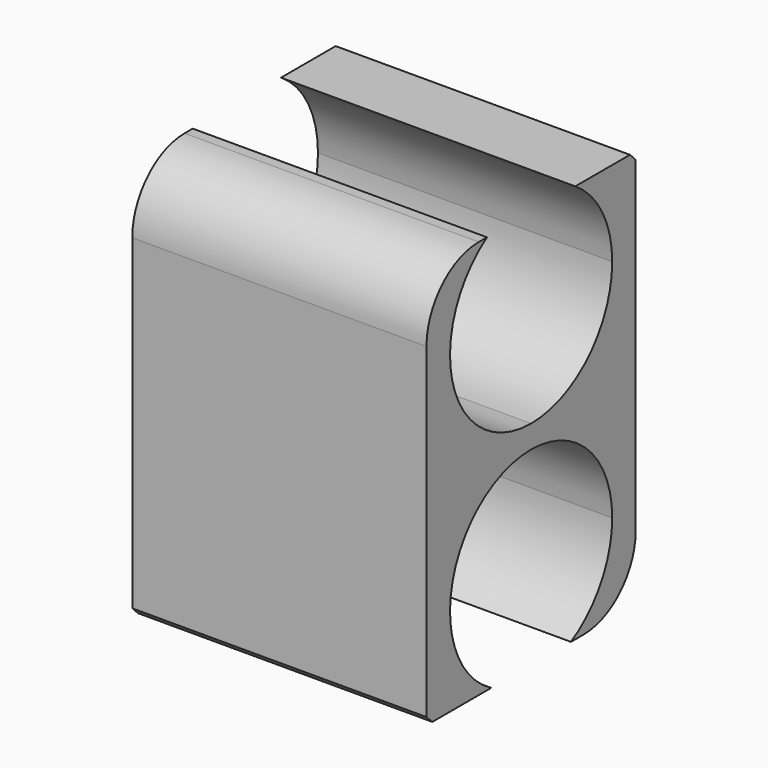
from build123d import *

# Parameters (mm, degrees)
F0_W     = 1.143
F0_H     = 1.5494
F1_DEPTH = 1.016
F3_DEPTH = 25.4
F4_R     = 0.254
F5_R     = 0.254
F6_SIZE  = 0.028194


with BuildPart() as f1:
    # F0 (on Front) → F1 (new body)
    with BuildSketch(Plane.XZ):
        Rectangle(F0_W, F0_H)
    extrude(amount=F1_DEPTH)

    # F2 (on face) → F3 (cut)
    with BuildSketch(Plane.YZ.offset(0.5715)):
        with BuildLine():
            Line((-0.508, 0.0507245232), (-0.508, 0.7747))
            Line((-0.508, 0.7747), (-0.7222843892, 0.7747))
            ThreePointArc((-0.7222843892, 0.7747), (-0.8855110232, 0.3326877012), (-0.508, 0.0507245232))
        make_face()
        with BuildLine():
            Line((-0.508, -0.7747), (-0.508, -0.0381136742))
            ThreePointArc((-0.508, -0.0381136742), (-0.88878474, -0.3318003163), (-0.7014648743, -0.7747))
            Line((-0.7014648743, -0.7747), (-0.508, -0.7747))
        make_face()
        with BuildLine():
            ThreePointArc((-0.1143, -0.4318136742), (-0.2296120602, -0.1534257344), (-0.508, -0.0381136742))
            Line((-0.508, -0.0381136742), (-0.508, -0.7747))
            Line((-0.508, -0.7747), (-0.3145351257, -0.7747))
            ThreePointArc((-0.3145351257, -0.7747), (-0.1680244046, -0.6303490224), (-0.1143, -0.4318136742))
        make_face()
        with BuildLine():
            Line((-0.2937156108, 0.7747), (-0.508, 0.7747))
            Line((-0.508, 0.7747), (-0.508, 0.0507245232))
            ThreePointArc((-0.508, 0.0507245232), (-0.2296120602, 0.1660365835), (-0.1143, 0.4444245232))
            ThreePointArc((-0.1143, 0.4444245232), (-0.162049531, 0.6323552631), (-0.2937156108, 0.7747))
        make_face()
    extrude(amount=-F3_DEPTH, mode=Mode.SUBTRACT)

    # F4
    f4_edges = [f1.edges().sort_by_distance(p)[0] for p in [
        (0, -1.016, 0.7747),
    ]]
    fillet(f4_edges, radius=F4_R)

    # F5
    f5_edges = [f1.edges().sort_by_distance(p)[0] for p in [
        (0, 0, -0.7747),
    ]]
    fillet(f5_edges, radius=F5_R)

    # F6
    f6_edges = [f1.edges().sort_by_distance(p)[0] for p in [
        (0, 0, 0.7747),
        (0, -1.016, -0.7747),
    ]]
    chamfer(f6_edges, length=F6_SIZE)


solid = f1.part
